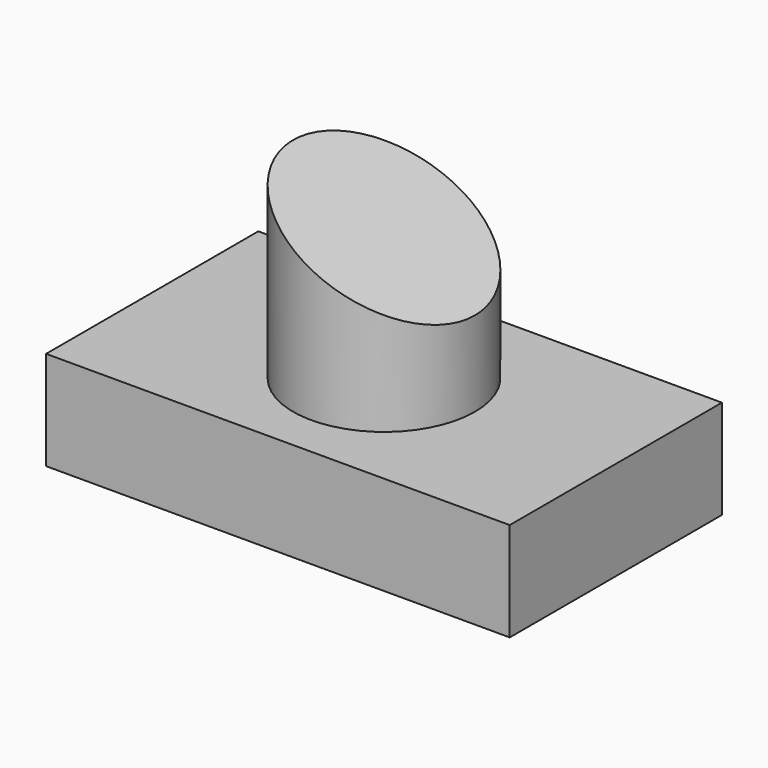
from build123d import *

# Parameters (mm, degrees)
F0_W     = 119.054884
F0_H     = 68.104512
F1_DEPTH = 25.4
F2_R     = 23.34143
F3_DEPTH = 47.244
F5_DEPTH = 32.512


with BuildPart() as f1:
    # F0 (on Top) → F1 (new body)
    with BuildSketch(Plane.XY):
        Rectangle(F0_W, F0_H)
    extrude(amount=F1_DEPTH)

    # F2 (on face) → F3 (join)
    with BuildSketch(Plane.XY.offset(25.4)):
        Circle(F2_R)
    extrude(amount=F3_DEPTH)

    # F4 (on Front) → F5 (cut, symmetric)
    with BuildSketch(Plane.XZ):
        Polygon((40.58107, 78.345791), (-36.091031, 78.345791), (40.58107, 38.148768), align=None)
    extrude(amount=F5_DEPTH, both=True, mode=Mode.SUBTRACT)


solid = f1.part
